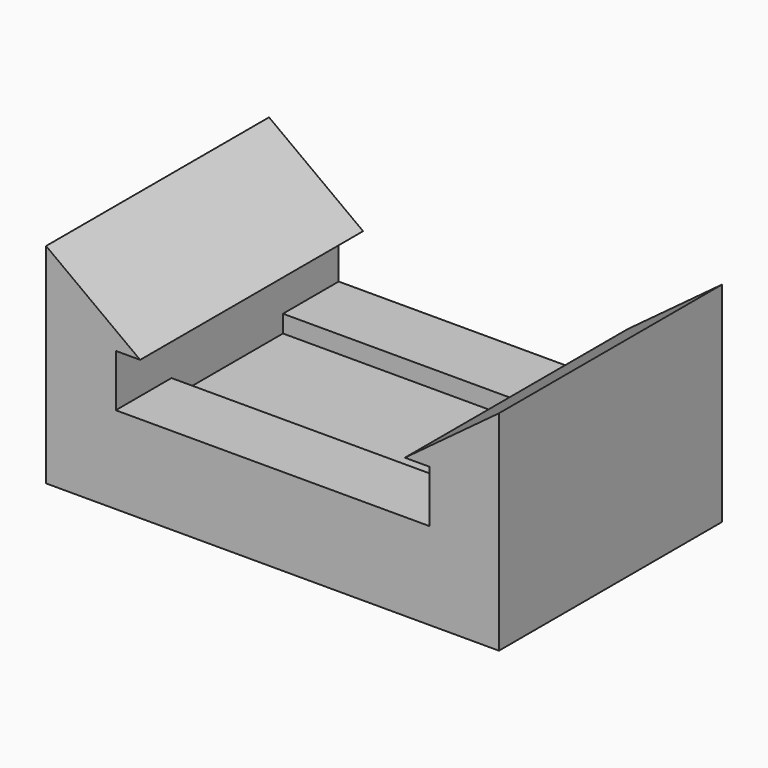
from build123d import *

# Parameters (mm, degrees)
F0_W     = 13
F0_H     = 8
F3_DEPTH = 2
F1_W     = 13
F1_H     = 8
F1_W_2   = 9
F1_H_2   = 4
F4_DEPTH = 4
F5_START = 2.5
F2_W     = 9
F2_H     = 2
F5_DEPTH = 1.5
F6_W     = 2.7
F6_H     = 8
F7_DEPTH = 2
F9_DEPTH = 8.001


with BuildPart() as f3:
    # F0 (on Top) → F3 (new body)
    with BuildSketch(Plane.XY):
        Rectangle(F0_W, F0_H)
    extrude(amount=F3_DEPTH)

    # F1 (on Top) → F4 (join)
    with BuildSketch(Plane.XY):
        Rectangle(F1_W, F1_H)
        Rectangle(F1_W_2, F1_H_2, mode=Mode.SUBTRACT)
    extrude(amount=F4_DEPTH)

    # F2 (on Top) → F5 (cut)
    with BuildSketch(Plane.XY.offset(F5_START)):
        with Locations((0, 3)):
            Rectangle(F2_W, F2_H)
        with Locations((0, -3)):
            Rectangle(F2_W, F2_H)
    extrude(amount=F5_DEPTH, mode=Mode.SUBTRACT)

    # F6 (on face) → F7 (join)
    with BuildSketch(Plane.XY.offset(4)):
        with Locations((-5.15, 0)):
            Rectangle(F6_W, F6_H)
        with Locations((5.15, 0)):
            Rectangle(F6_W, F6_H)
    extrude(amount=F7_DEPTH)

    # F8 (on face) → F9 (cut, through all)
    with BuildSketch(Plane.XZ.offset(4)):
        Polygon((-3.8, 6), (-6.5, 6), (-3.8, 4), align=None)
        Polygon((3.8, 4), (6.5, 6), (3.8, 6), align=None)
    extrude(amount=-F9_DEPTH, mode=Mode.SUBTRACT)


solid = f3.part
